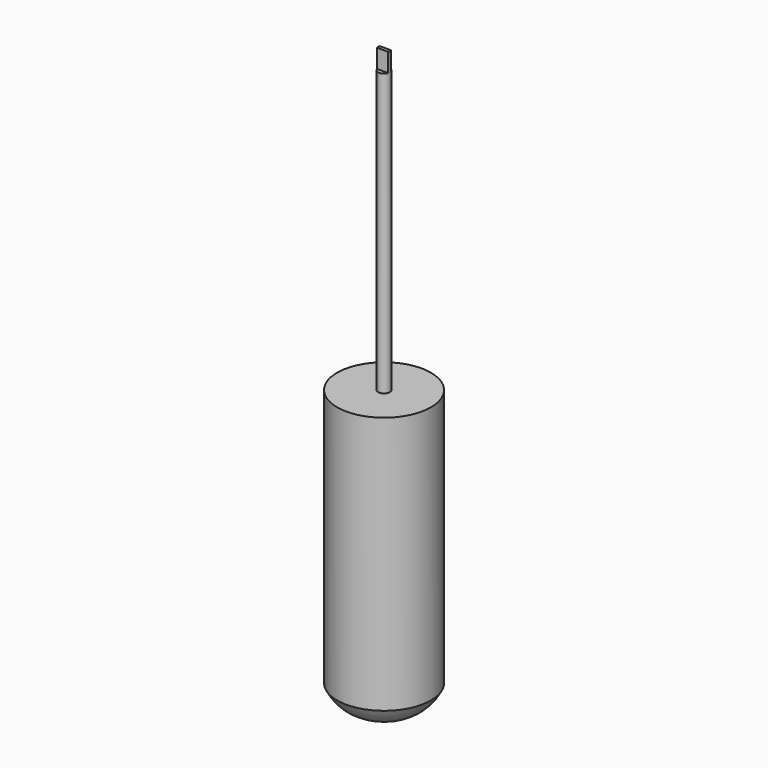
from build123d import *

# Parameters (mm, degrees)
F2_R     = 1.5875
F3_DEPTH = 152.4
F5_DEPTH = 5.08


with BuildPart() as f1:
    # F0 (on Front) → F1 (revolve)
    with BuildSketch(Plane.XZ):
        with BuildLine():
            Line((0, 76.2), (0, 0))
            ThreePointArc((0, 0), (7.4556115815, 0.963776837), (12.7, 6.35))
            Line((12.7, 6.35), (12.7, 76.2))
            Line((12.7, 76.2), (0, 76.2))
        make_face()
    revolve(axis=Axis((0, 0, 38.1), (0, 0, 1)))

    # F2 (on Top) → F3 (join)
    with BuildSketch(Plane.XY):
        Circle(F2_R)
    extrude(amount=F3_DEPTH)

    # F4 (on face) → F5 (join)
    with BuildSketch(Plane.XY.offset(152.4)):
        with BuildLine():
            Line((1.5242467692, 0.4436530587), (-1.5242467692, 0.4436530587))
            ThreePointArc((-1.5242467692, 0.4436530587), (-1.5873331828, -0.0230134024), (-1.5107445232, -0.4876548326))
            Line((-1.5107445232, -0.4876548326), (1.5107445232, -0.4876548326))
            ThreePointArc((1.5107445232, -0.4876548326), (1.5681937349, -0.2468292117), (1.5875, 0))
            ThreePointArc((1.5875, 0), (1.5716071386, 0.2240697479), (1.5242467692, 0.4436530587))
        make_face()
    extrude(amount=F5_DEPTH)


solid = f1.part
